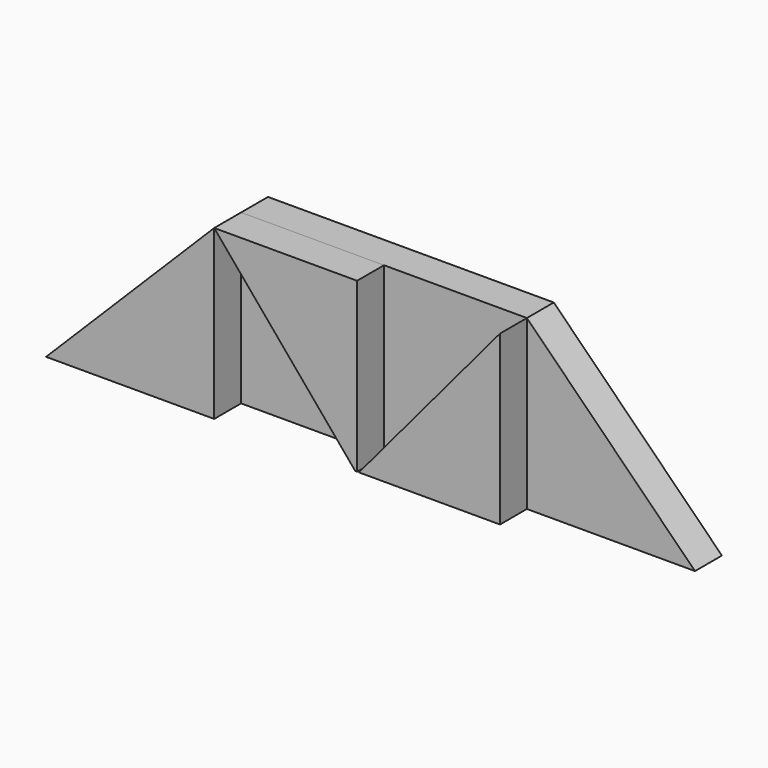
from build123d import *

# Parameters (mm, degrees)
F1_DEPTH = 25.4
F2_DEPTH = 25.4


with BuildPart() as f1:
    # F0 (on Front) → F1 (new body)
    with BuildSketch(Plane.XZ):
        Polygon((-76.2, 127), (-203.2, 0), (-76.2, 0), align=None)
        Polygon((31.75, 127), (-76.2, 127), (30.365653, 0), (31.75, 0), align=None)
        Polygon((139.7, 0), (139.7, 127), (33.134347, 0), align=None)
    extrude(amount=F1_DEPTH)


with BuildPart() as f2:
    # F0 (on Front) → F2 (new body)
    with BuildSketch(Plane.XZ):
        Polygon((-76.2, 127), (-203.2, 0), (-76.2, 0), align=None)
        Polygon((-76.2, 127), (-76.2, 0), (30.365653, 0), align=None)
        Polygon((31.75, 127), (-76.2, 127), (30.365653, 0), (31.75, 0), align=None)
        Polygon((139.7, 127), (31.75, 127), (31.75, 0), (33.134347, 0), align=None)
        Polygon((266.7, 0), (139.7, 127), (139.7, 0), align=None)
        Polygon((139.7, 0), (139.7, 127), (33.134347, 0), align=None)
    extrude(amount=-F2_DEPTH)


solid = Compound([f1.part, f2.part])
